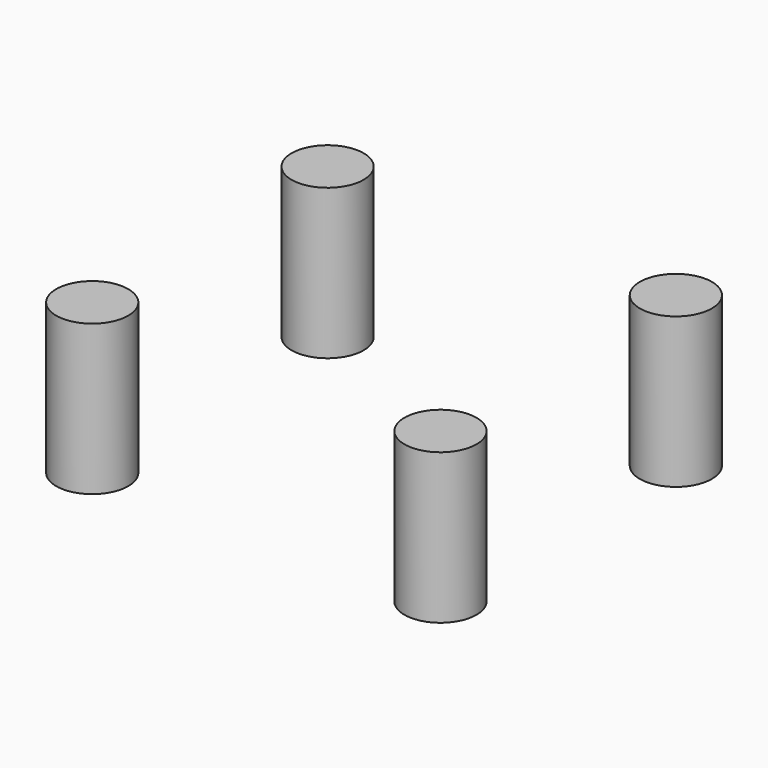
from build123d import *

# Parameters (mm, degrees)
CYLINDER018_R     = 6
CYLINDER018_DEPTH = 25
CYLINDER017_R     = 6
CYLINDER017_DEPTH = 25
CYLINDER016_R     = 6
CYLINDER016_DEPTH = 25
CYLINDER019_R     = 6
CYLINDER019_DEPTH = 25


with BuildPart() as cylinder018:
    # Cylinder018 → Cylinder018 (new body)
    with BuildSketch(Plane(origin=(70, 57, 0), x_dir=(1, 0, 0), z_dir=(0, 0, 1))):
        Circle(CYLINDER018_R)
    extrude(amount=CYLINDER018_DEPTH)


with BuildPart() as cylinder017:
    # Cylinder017 → Cylinder017 (new body)
    with BuildSketch(Plane(origin=(12, 8, 0), x_dir=(1, 0, 0), z_dir=(0, 0, 1))):
        Circle(CYLINDER017_R)
    extrude(amount=CYLINDER017_DEPTH)


with BuildPart() as cylinder016:
    # Cylinder016 → Cylinder016 (new body)
    with BuildSketch(Plane(origin=(12, 57, 0), x_dir=(1, 0, 0), z_dir=(0, 0, 1))):
        Circle(CYLINDER016_R)
    extrude(amount=CYLINDER016_DEPTH)


with BuildPart() as obj1:
    # Cylinder019 → Cylinder019 (new body)
    with BuildSketch(Plane(origin=(70, 8, 0), x_dir=(1, 0, 0), z_dir=(0, 0, 1))):
        Circle(CYLINDER019_R)
    extrude(amount=CYLINDER019_DEPTH)

    # Fusion007: union Cylinder018, Cylinder017, Cylinder016
    add(cylinder018.part)
    add(cylinder017.part)
    add(cylinder016.part)


solid = obj1.part
